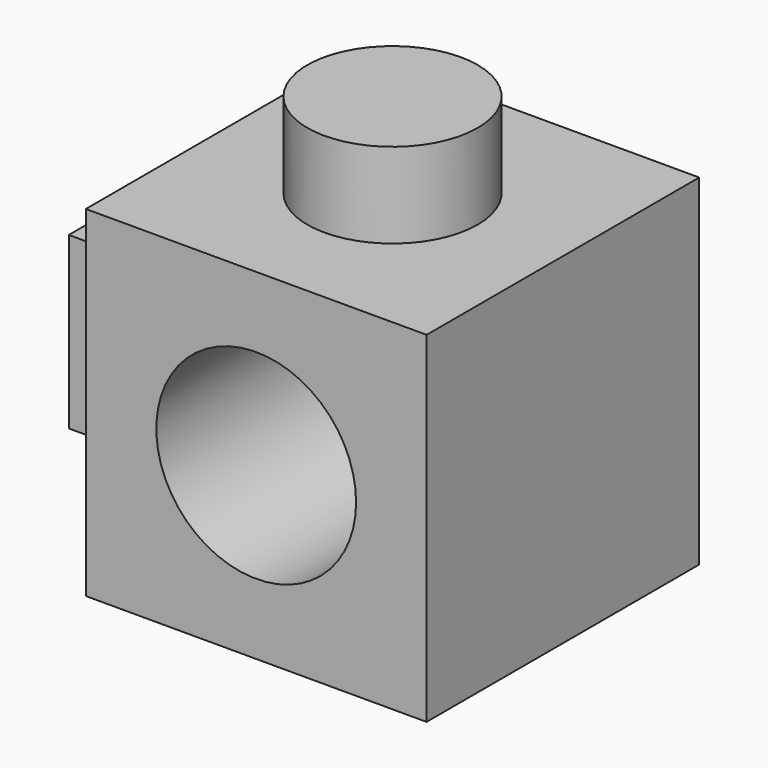
from build123d import *

# Parameters (mm, degrees)
F0_W     = 50.8
F0_H     = 50.8
F0_R     = 14.889402
F1_DEPTH = 50.8
F2_W     = 25.4
F2_H     = 25.4
F3_DEPTH = 12.7
F4_R     = 12.7
F5_DEPTH = 12.7


with BuildPart() as f1:
    # F0 (on Front) → F1 (new body)
    with BuildSketch(Plane.XZ):
        with Locations((-25.4, -25.4)):
            Rectangle(F0_W, F0_H)
        with Locations((-25.4, -25.4)):
            Circle(F0_R, mode=Mode.SUBTRACT)
    extrude(amount=F1_DEPTH)

    # F2 (on face) → F3 (join)
    with BuildSketch(Plane(origin=(-50.8, 0, 0), x_dir=(0, -1, 0), z_dir=(-1, 0, 0))):
        with Locations((25.4, -25.4)):
            Rectangle(F2_W, F2_H)
    extrude(amount=F3_DEPTH)

    # F4 (on face) → F5 (join)
    with BuildSketch(Plane.XY):
        with Locations((-25.4, -25.4)):
            Circle(F4_R)
    extrude(amount=F5_DEPTH)


solid = f1.part
